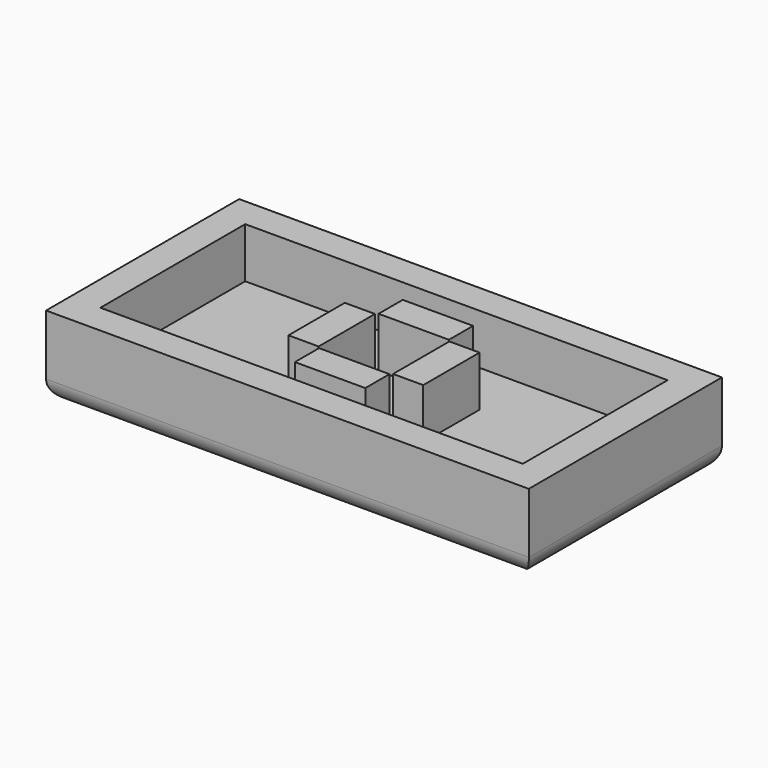
from build123d import *

# Parameters (mm, degrees)
SKETCH_W      = 24
SKETCH_H      = 12
PAD_DEPTH     = 1.5
SKETCH002_W   = 3.5
SKETCH002_H   = 1.5
SKETCH002_W_2 = 1.5
SKETCH002_H_2 = 3.5
PAD002_DEPTH  = 4
SKETCH003_W   = 24
SKETCH003_H   = 12
SKETCH003_W_2 = 21
SKETCH003_H_2 = 9
PAD003_DEPTH  = 4
FILLET_R      = 1


with BuildPart() as part:
    # Sketch → Pad (new body)
    with BuildSketch(Plane.XY):
        Rectangle(SKETCH_W, SKETCH_H)
    extrude(amount=PAD_DEPTH)

    # Sketch002 → Pad002 (join)
    with BuildSketch(Plane.XY):
        with Locations((0, 2.6)):
            Rectangle(SKETCH002_W, SKETCH002_H)
        with Locations((0, -2.6)):
            Rectangle(SKETCH002_W, SKETCH002_H)
        with Locations((-2.6, 0)):
            Rectangle(SKETCH002_W_2, SKETCH002_H_2)
        with Locations((2.6, 0)):
            Rectangle(SKETCH002_W_2, SKETCH002_H_2)
    extrude(amount=PAD002_DEPTH)

    # Sketch003 → Pad003 (join)
    with BuildSketch(Plane.XY):
        Rectangle(SKETCH003_W, SKETCH003_H)
        Rectangle(SKETCH003_W_2, SKETCH003_H_2, mode=Mode.SUBTRACT)
    extrude(amount=PAD003_DEPTH)

    # Fillet
    fillet_edges = [part.edges().sort_by_distance(p)[0] for p in [
        (-12, 0, 0),
        (0, -6, 0),
        (12, 0, 0),
        (0, 6, 0),
    ]]
    fillet(fillet_edges, radius=FILLET_R)


solid = part.part
